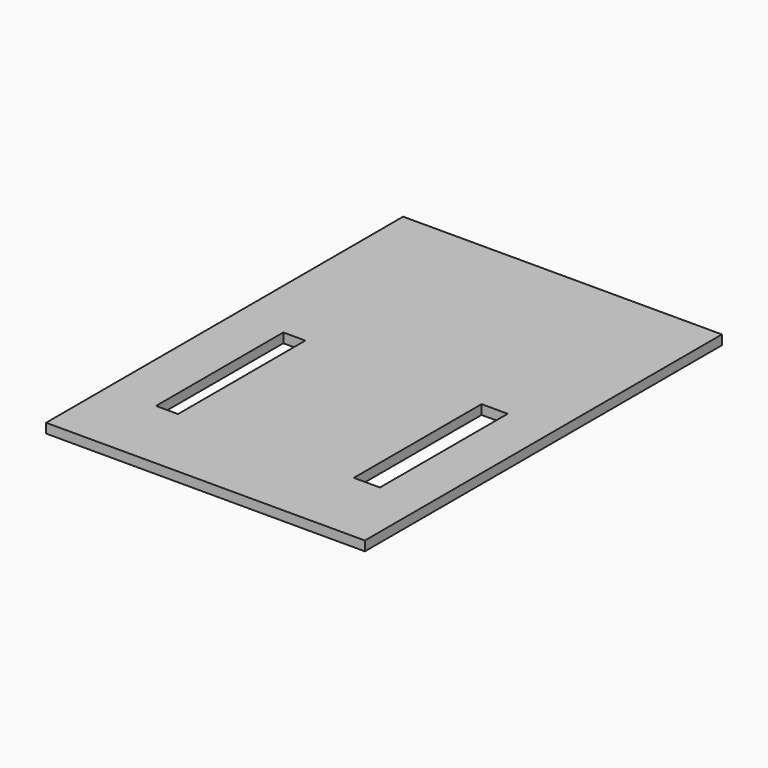
from build123d import *

# Parameters (mm, degrees)
F0_W     = 100
F0_H     = 140
F1_DEPTH = 3
F2_W     = 6.920546
F2_H     = 49.926833
F2_W_2   = 8.19841
F2_H_2   = 50.076865
F3_DEPTH = 25


with BuildPart() as f1:
    # F0 (on Top) → F1 (new body)
    with BuildSketch(Plane.XY):
        with Locations((-50, 70)):
            Rectangle(F0_W, F0_H)
    extrude(amount=F1_DEPTH)

    # F2 (on face) → F3 (cut)
    with BuildSketch(Plane.XY.offset(3)):
        with Locations((-81.092775, 48.751824)):
            Rectangle(F2_W, F2_H)
        with Locations((-18.774986, 49.307819)):
            Rectangle(F2_W_2, F2_H_2)
    extrude(amount=-F3_DEPTH, mode=Mode.SUBTRACT)


solid = f1.part
